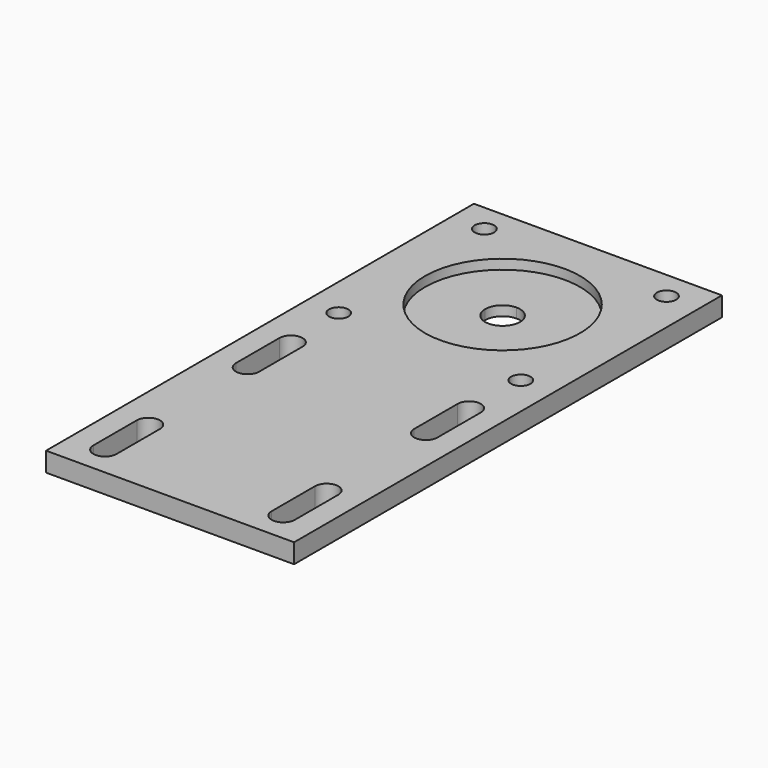
from build123d import *

# Parameters (mm, degrees)
PAD_DEPTH            = 5
SKETCH001_R          = 2.5
POCKET_DEPTH         = 288.500559
POCKET001_DEPTH      = 283.500559
POCKET001_DEPTH_BACK = 288.500559
SKETCH003_R          = 20
POCKET002_DEPTH      = 2.5
SKETCH004_R          = 4.5
POCKET003_DEPTH      = 288.500559
POCKET003_DEPTH_BACK = 283.500559


with BuildPart() as part:
    # Sketch → Pad (new body)
    with BuildSketch(Plane.XY):
        Polygon((0, 0), (0, 69), (32, 69), (32, -69), (0, -69), align=None)
    pad = extrude(amount=PAD_DEPTH)

    # Sketch001 → Pocket (cut, through all)
    with BuildSketch(Plane(origin=(23.5, 14.75, 0), x_dir=(1, 0, 0), z_dir=(0, 0, 1))):
        Circle(SKETCH001_R)
        with Locations((0, 47)):
            Circle(SKETCH001_R)
    pocket = extrude(amount=POCKET_DEPTH, mode=Mode.SUBTRACT)

    # Sketch002 → Pocket001 (cut, two sides)
    with BuildSketch(Plane(origin=(23, -1.25, 0), x_dir=(1, 0, 0), z_dir=(0, 0, 1))) as pocket001_sk:
        with BuildLine():
            ThreePointArc((3, 0), (0, 3), (-3, 0))
            Line((-3, 0), (-3, -14))
            ThreePointArc((-3, -14), (0, -17), (3, -14))
            Line((3, -14), (3, 0))
        make_face()
        with BuildLine():
            ThreePointArc((3, -46), (0, -43), (-3, -46))
            Line((-3, -46), (-3, -60))
            ThreePointArc((-3, -60), (0, -63), (3, -60))
            Line((3, -60), (3, -46))
        make_face()
    pocket001 = extrude(amount=-POCKET001_DEPTH, mode=Mode.SUBTRACT) + extrude(pocket001_sk.sketch, amount=POCKET001_DEPTH_BACK, mode=Mode.SUBTRACT)

    # Sketch003 → Pocket002 (cut)
    with BuildSketch(Plane(origin=(0, 38.25, 5), x_dir=(1, 0, 0), z_dir=(0, 0, 1))):
        Circle(SKETCH003_R)
    pocket002 = extrude(amount=-POCKET002_DEPTH, mode=Mode.SUBTRACT)

    # Sketch004 → Pocket003 (cut, two sides)
    with BuildSketch(Plane(origin=(0, 38.25, 5), x_dir=(1, 0, 0), z_dir=(0, 0, 1))) as pocket003_sk:
        Circle(SKETCH004_R)
    pocket003 = extrude(amount=-POCKET003_DEPTH, mode=Mode.SUBTRACT) + extrude(pocket003_sk.sketch, amount=POCKET003_DEPTH_BACK, mode=Mode.SUBTRACT)

    # Mirrored: Pad, Pocket, Pocket001, Pocket002, Pocket003 across Sketch V_Axis
    add(pad.mirror(Plane(origin=(0, 0, 0), x_dir=(0, 0, 1), z_dir=(1, 0, 0))))
    add(pocket.mirror(Plane(origin=(0, 0, 0), x_dir=(0, 0, 1), z_dir=(1, 0, 0))), mode=Mode.SUBTRACT)
    add(pocket001.mirror(Plane(origin=(0, 0, 0), x_dir=(0, 0, 1), z_dir=(1, 0, 0))), mode=Mode.SUBTRACT)
    add(pocket002.mirror(Plane(origin=(0, 0, 0), x_dir=(0, 0, 1), z_dir=(1, 0, 0))), mode=Mode.SUBTRACT)
    add(pocket003.mirror(Plane(origin=(0, 0, 0), x_dir=(0, 0, 1), z_dir=(1, 0, 0))), mode=Mode.SUBTRACT)


solid = part.part
